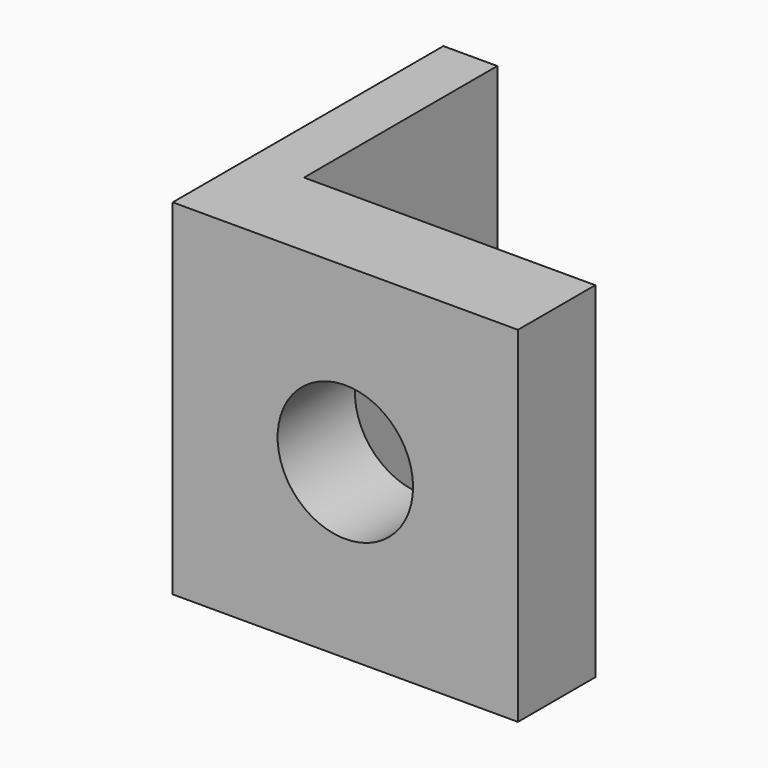
from build123d import *

# Parameters (mm, degrees)
F0_W     = 35.7145108283
F0_H     = 35.7145108283
F1_DEPTH = 10
F2_R     = 7.0075928512
F3_DEPTH = 25
F4_W     = 5.5791772902
F4_H     = 35.7145108283
F5_DEPTH = 25


with BuildPart() as f1:
    # F0 (on Front) → F1 (new body)
    with BuildSketch(Plane.XZ):
        with Locations((-17.8572554141, 17.8572554141)):
            Rectangle(F0_W, F0_H)
    extrude(amount=F1_DEPTH)

    # F2 (on face) → F3 (cut)
    with BuildSketch(Plane.XZ.offset(10)):
        with Locations((-17.8572554141, 17.8572554141)):
            Circle(F2_R)
    extrude(amount=-F3_DEPTH, mode=Mode.SUBTRACT)

    # F4 (on face) → F5 (join)
    with BuildSketch(Plane(origin=(0, 0, 0), x_dir=(-1, 0, 0), z_dir=(0, 1, 0))):
        with Locations((32.9249221832, 17.8572554141)):
            Rectangle(F4_W, F4_H)
    extrude(amount=F5_DEPTH)


solid = f1.part
